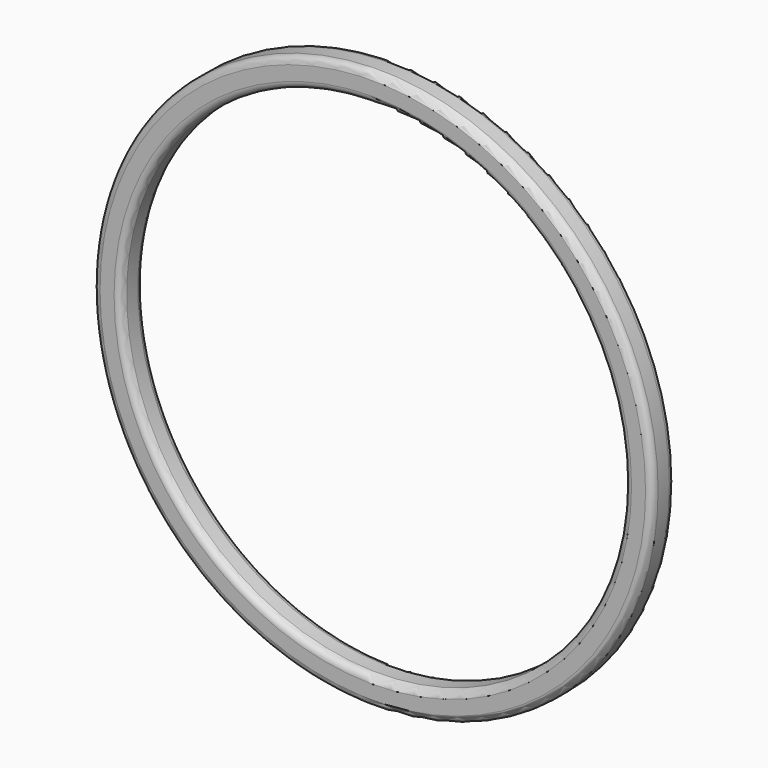
from build123d import *

# Parameters (mm, degrees)
F0_R     = 25.4
F0_R_2   = 22.86
F1_DEPTH = 2.54
F2_R     = 0.635
F3_R     = 0.635
F4_R     = 0.635


with BuildPart() as f1:
    # F0 (on Front) → F1 (new body)
    with BuildSketch(Plane.XZ):
        Circle(F0_R)
        Circle(F0_R_2, mode=Mode.SUBTRACT)
    extrude(amount=F1_DEPTH)

    # F2
    f2_edges = [f1.edges().sort_by_distance(p)[0] for p in [
        (-22.86, -2.54, 0),
    ]]
    fillet(f2_edges, radius=F2_R)

    # F3
    f3_edges = [f1.edges().sort_by_distance(p)[0] for p in [
        (-25.4, -2.54, 0),
    ]]
    fillet(f3_edges, radius=F3_R)

    # F4
    f4_edges = [f1.edges().sort_by_distance(p)[0] for p in [
        (-25.4, 0, 0),
        (-22.86, 0, 0),
    ]]
    fillet(f4_edges, radius=F4_R)


solid = f1.part
